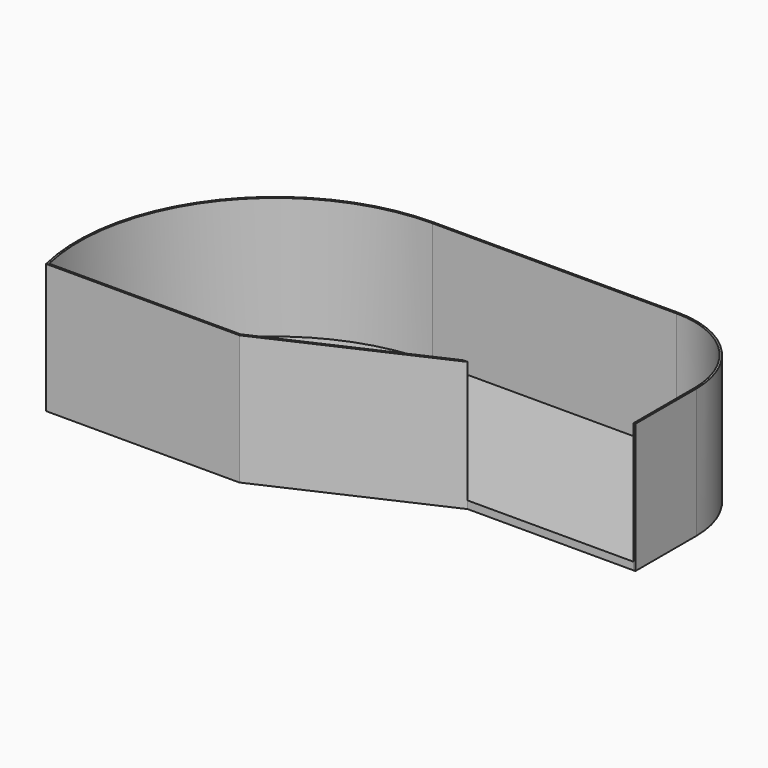
from build123d import *

# Parameters (mm, degrees)
F1_DEPTH = 107.95
F2_DEPTH = 6.35
F3_R     = 14.19479
F4_DEPTH = 6.35


with BuildPart() as f1:
    # F0 (on Top) → F1 (new body)
    with BuildSketch(Plane.XY):
        with BuildLine():
            Line((203.2, 165.1), (0, 165.1))
            ThreePointArc((0, 165.1), (-129.515096, 102.390673), (-160.643705, -38.1))
            Line((-160.643705, -38.1), (0.344641, -38.1))
            Line((0.344641, -38.1), (139.7, 25.4))
            Line((139.7, 25.4), (135.871475, 25.4))
            Line((135.871475, 25.4), (0, -36.5125))
            Line((0, -36.5125), (-159.383735, -36.5125))
            ThreePointArc((-159.383735, -36.5125), (-127.879998, 101.897222), (0, 163.5125))
            Line((0, 163.5125), (203.2, 163.5125))
            ThreePointArc((203.2, 163.5125), (255.959005, 141.659005), (277.8125, 88.9))
            Line((277.8125, 88.9), (277.8125, 26.9875))
            Line((277.8125, 26.9875), (277.8125, 25.4))
            Line((277.8125, 25.4), (279.4, 25.4))
            Line((279.4, 25.4), (279.4, 88.9))
            ThreePointArc((279.4, 88.9), (257.081537, 142.781537), (203.2, 165.1))
        make_face()
    extrude(amount=F1_DEPTH)


with BuildPart() as f2:
    # F0 (on Top) → F2 (new body)
    with BuildSketch(Plane.XY):
        with BuildLine():
            Line((135.871475, 25.4), (139.7, 25.4))
            Line((139.7, 25.4), (277.8125, 25.4))
            Line((277.8125, 25.4), (277.8125, 26.9875))
            Line((277.8125, 26.9875), (277.8125, 88.9))
            ThreePointArc((277.8125, 88.9), (255.959005, 141.659005), (203.2, 163.5125))
            Line((203.2, 163.5125), (0, 163.5125))
            ThreePointArc((0, 163.5125), (-127.879998, 101.897222), (-159.383735, -36.5125))
            Line((-159.383735, -36.5125), (0, -36.5125))
            Line((0, -36.5125), (135.871475, 25.4))
        make_face()
    extrude(amount=F2_DEPTH)

    # F3 (on face) → F4 (cut)
    with BuildSketch(Plane.XY.offset(6.35)):
        Circle(F3_R)
    extrude(amount=-F4_DEPTH, mode=Mode.SUBTRACT)


solid = Compound([f1.part, f2.part])
